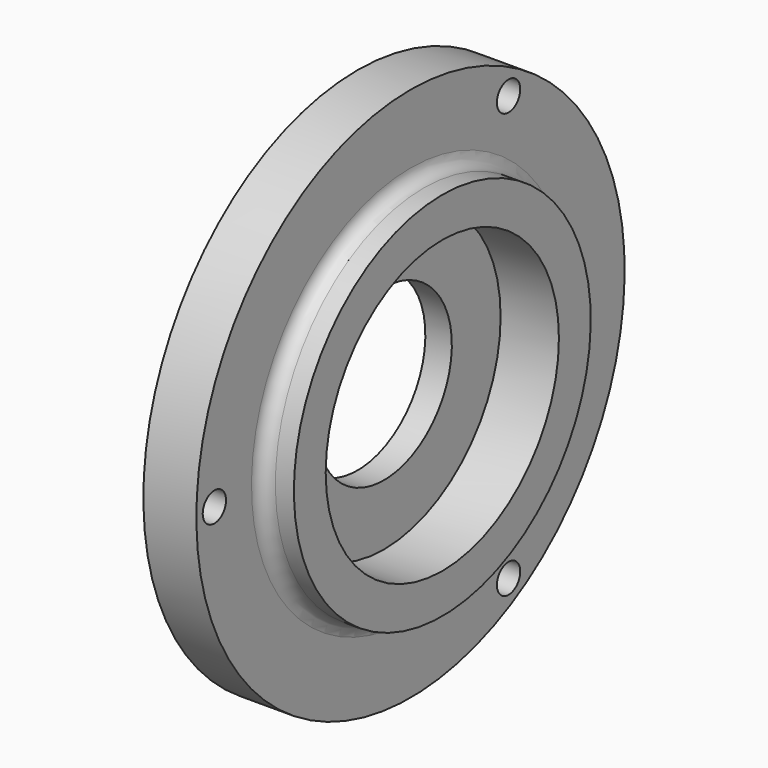
from build123d import *

# Parameters (mm, degrees)
F2_R = 5
F4_D = 11


with BuildPart() as f1:
    # F0 (on Front) → F1 (revolve)
    with BuildSketch(Plane.XZ):
        Polygon((0, 101), (0, 32), (10, 32), (10, 55), (32, 55), (32, 70), (20, 70), (20, 101), align=None)
    revolve(axis=Axis((86.927190423, 0, 0), (1, 0, 0)))

    # F2
    f2_edges = [f1.edges().sort_by_distance(p)[0] for p in [
        (20, 0, -70),
    ]]
    fillet(f2_edges, radius=F2_R)

    # F4 (through all)
    with Locations(Plane.YZ.offset(20)):
        with Locations((46.25, 80.1073498501), (-92.5, 0), (46.25, -80.1073498501)):
            Hole(F4_D / 2)


solid = f1.part
